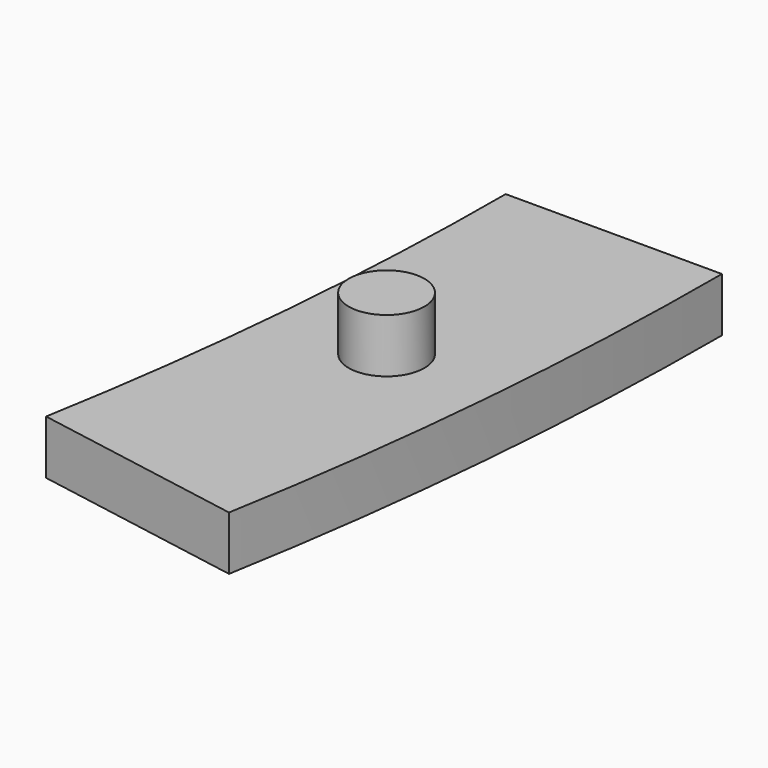
from build123d import *

# Parameters (mm, degrees)
F0_R     = 2.667
F1_DEPTH = 3.81
F2_DEPTH = 7.62


with BuildPart() as f1:
    # F0 (on Top) → F1 (new body)
    with BuildSketch(Plane.XY):
        with BuildLine():
            ThreePointArc((222.000288, -39.14464), (224.56719, -19.647083), (225.425, 0))
            Line((225.425, 0), (210.185, 0))
            ThreePointArc((210.185, 0), (209.385183, -18.31883), (206.991818, -36.498242))
            Line((206.991818, -36.498242), (222.000288, -39.14464))
        make_face()
        with Locations((216.976186, -18.982957)):
            Circle(F0_R, mode=Mode.SUBTRACT)
    extrude(amount=F1_DEPTH)

    # F0 (on Top) → F2 (join)
    with BuildSketch(Plane.XY):
        with Locations((216.976186, -18.982957)):
            Circle(F0_R)
    extrude(amount=F2_DEPTH)


solid = f1.part
